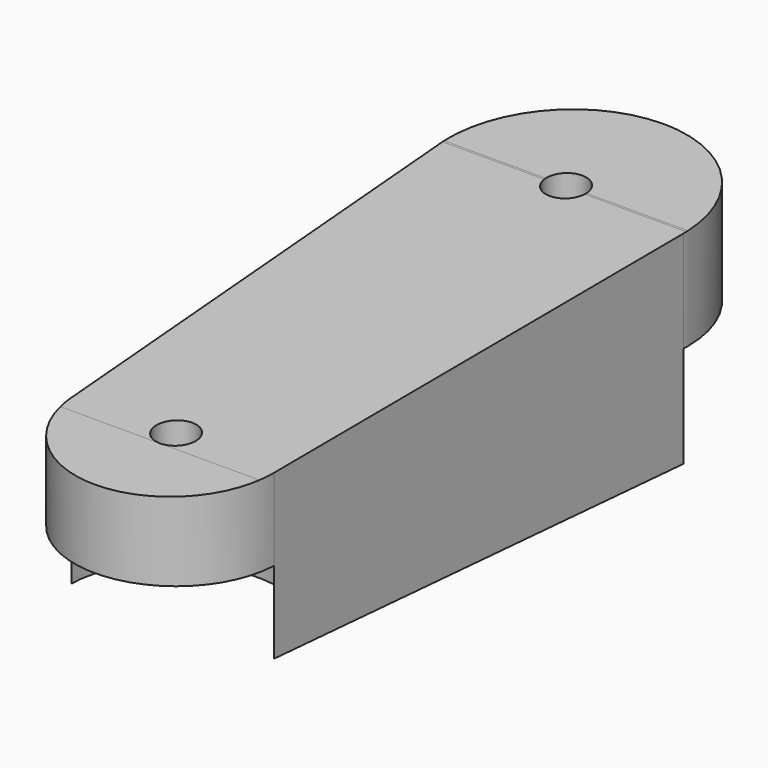
from build123d import *

# Parameters (mm, degrees)
F0_R     = 1.5875
F2_DEPTH = 12.7
F3_DEPTH = 12.7
F5_R     = 7.9375
F5_R_2   = 1.5875
F6_DEPTH = 25.4


with BuildPart() as f2:
    # F0 (on Top) → F2 (new body, symmetric)
    with BuildSketch(Plane.XY):
        with BuildLine():
            Line((7.930607, -38.430729), (9.516728, -0.396875))
            ThreePointArc((9.516728, -0.396875), (0, 9.525), (-9.516728, -0.396875))
            Line((-9.516728, -0.396875), (-7.930607, -38.430729))
            ThreePointArc((-7.930607, -38.430729), (0, -46.0375), (7.930607, -38.430729))
        make_face()
        with Locations((0, -38.1)):
            Circle(F0_R, mode=Mode.SUBTRACT)
        Circle(F0_R, mode=Mode.SUBTRACT)
    extrude(amount=F2_DEPTH, both=True)

    # F1 (on Right) → F3 (intersect, symmetric)
    with BuildSketch(Plane.YZ):
        Polygon((0, 7.943899), (-0.161479, 7.937414), (-39.6875, 6.35), (-46.0375, 6.094976), (-46.0375, -6.094976), (-39.6875, -6.35), (0, -7.943899), (9.525, -8.326434), (9.525, 8.326434), align=None)
    extrude(amount=F3_DEPTH, both=True, mode=Mode.INTERSECT)

    # F5 (on offset) → F6 (cut)
    with BuildSketch(Plane.XY):
        with BuildLine():
            ThreePointArc((-9.516728, -0.396875), (0, -9.525), (9.516728, -0.396875))
            ThreePointArc((9.516728, -0.396875), (9.522932, -0.198481), (9.525, 0))
            ThreePointArc((9.525, 0), (-0.198481, 9.522932), (-9.516728, -0.396875))
        make_face()
        with Locations((0, -38.1)):
            Circle(F5_R)
        with Locations((0, -38.1)):
            Circle(F5_R_2, mode=Mode.SUBTRACT)
    extrude(amount=-F6_DEPTH, mode=Mode.SUBTRACT)


solid = f2.part
